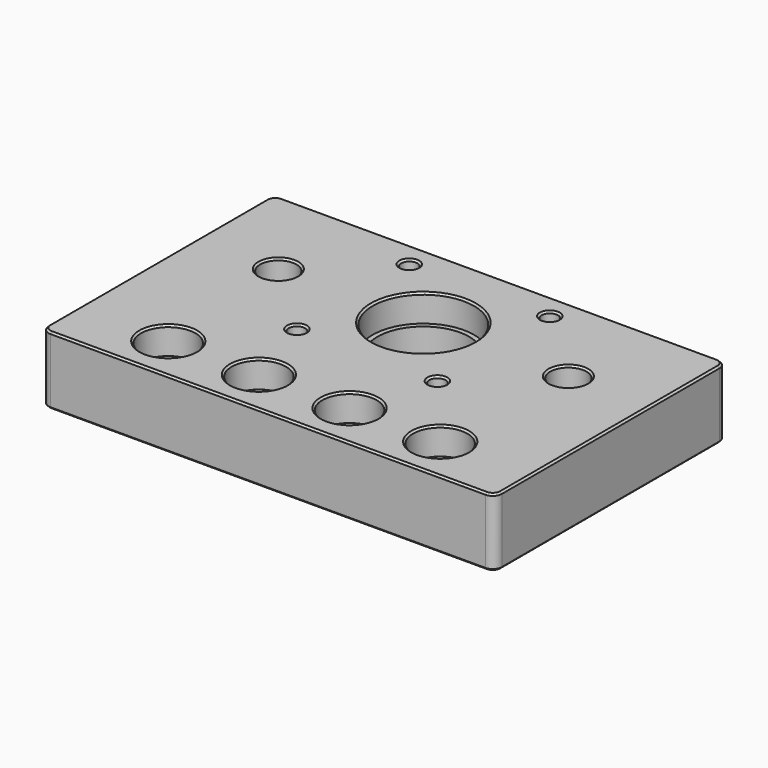
from build123d import *

# Parameters (mm, degrees)
SKETCH_W        = 100
SKETCH_H        = 64
SKETCH_R        = 10.1
SKETCH_R_2      = 1.8
SKETCH_R_3      = 3.2
SKETCH_R_4      = 4
PAD_DEPTH       = 15
SKETCH001_R     = 11.2
SKETCH001_R_2   = 6
POCKET_DEPTH    = 6
SKETCH002_R     = 3.2
POCKET001_DEPTH = 3.2
SKETCH003_R     = 6
POCKET002_DEPTH = 6
SKETCH004_R     = 3.2
POCKET003_DEPTH = 15
FILLET_R        = 2
CHAMFER_SIZE    = 0.4
CHAMFER001_SIZE = 0.4


with BuildPart() as part:
    # Sketch → Pad (new body)
    with BuildSketch(Plane.XY):
        with Locations((50, 32)):
            Rectangle(SKETCH_W, SKETCH_H)
        with Locations((50, 42.85)):
            Circle(SKETCH_R, mode=Mode.SUBTRACT)
        with Locations((65.5, 58.35)):
            Circle(SKETCH_R_2, mode=Mode.SUBTRACT)
        with Locations((65.5, 27.35)):
            Circle(SKETCH_R_2, mode=Mode.SUBTRACT)
        with Locations((34.5, 27.35)):
            Circle(SKETCH_R_2, mode=Mode.SUBTRACT)
        with Locations((34.5, 58.35)):
            Circle(SKETCH_R_2, mode=Mode.SUBTRACT)
        with Locations((20, 10)):
            Circle(SKETCH_R_3, mode=Mode.SUBTRACT)
        with Locations((80, 10)):
            Circle(SKETCH_R_3, mode=Mode.SUBTRACT)
        with Locations((82, 42.85)):
            Circle(SKETCH_R_4, mode=Mode.SUBTRACT)
        with Locations((18, 42.85)):
            Circle(SKETCH_R_4, mode=Mode.SUBTRACT)
    extrude(amount=PAD_DEPTH)

    # Sketch001 (on Face15 of Pad) → Pocket (cut)
    with BuildSketch(Plane.XY.offset(15)):
        with Locations((50, 42.85)):
            Circle(SKETCH001_R)
        with Locations((20, 10)):
            Circle(SKETCH001_R_2)
        with Locations((80, 10)):
            Circle(SKETCH001_R_2)
    extrude(amount=-POCKET_DEPTH, mode=Mode.SUBTRACT)

    # Sketch002 (on Face4 of Pocket) → Pocket001 (cut)
    with BuildSketch(Plane(origin=(0, 0, 0), x_dir=(1, 0, 0), z_dir=(0, 0, -1))):
        with Locations((34.5, -27.35)):
            Circle(SKETCH002_R)
        with Locations((65.5, -27.35)):
            Circle(SKETCH002_R)
        with Locations((34.5, -58.35)):
            Circle(SKETCH002_R)
        with Locations((65.5, -58.35)):
            Circle(SKETCH002_R)
    extrude(amount=-POCKET001_DEPTH, mode=Mode.SUBTRACT)

    # Sketch003 (on Face5 of Pocket001) → Pocket002 (cut)
    with BuildSketch(Plane.XY.offset(15)):
        with Locations((40, 10)):
            Circle(SKETCH003_R)
        with Locations((60, 10)):
            Circle(SKETCH003_R)
    extrude(amount=-POCKET002_DEPTH, mode=Mode.SUBTRACT)

    # Sketch004 (on Face4 of Pocket002) → Pocket003 (cut)
    with BuildSketch(Plane(origin=(0, 0, 0), x_dir=(1, 0, 0), z_dir=(0, 0, -1))):
        with Locations((40, -10)):
            Circle(SKETCH004_R)
        with Locations((60, -10)):
            Circle(SKETCH004_R)
    extrude(amount=-POCKET003_DEPTH, mode=Mode.SUBTRACT)

    # Fillet
    fillet_edges = [part.edges().sort_by_distance(p)[0] for p in [
        (0, 64, 7.5),
        (100, 64, 7.5),
        (100, 0, 7.5),
        (0, 0, 7.5),
    ]]
    fillet(fillet_edges, radius=FILLET_R)

    # Chamfer
    chamfer_edges = [part.edges().sort_by_distance(p)[0] for p in [
        (50, 64, 15),
        (0.585786, 63.414214, 15),
        (99.414214, 63.414214, 15),
        (0, 32, 15),
        (100, 32, 15),
        (0.585786, 0.585786, 15),
        (99.414214, 0.585786, 15),
        (50, 0, 15),
        (74, 10, 15),
        (54, 10, 15),
        (63.7, 27.35, 15),
        (34, 10, 15),
        (14, 10, 15),
        (32.7, 27.35, 15),
        (78, 42.85, 15),
        (63.7, 58.35, 15),
        (38.8, 42.85, 15),
        (14, 42.85, 15),
        (32.7, 58.35, 15),
    ]]
    chamfer(chamfer_edges, length=CHAMFER_SIZE)

    # Chamfer001
    chamfer001_edges = [part.edges().sort_by_distance(p)[0] for p in [
        (50, 64, 0),
        (0.585786, 63.414214, 0),
        (99.414214, 63.414214, 0),
        (0, 32, 0),
        (100, 32, 0),
        (0.585786, 0.585786, 0),
        (99.414214, 0.585786, 0),
        (50, 0, 0),
        (76.8, 10, 0),
        (56.8, 10, 0),
        (62.3, 27.35, 0),
        (36.8, 10, 0),
        (16.8, 10, 0),
        (31.3, 27.35, 0),
        (78, 42.85, 0),
        (62.3, 58.35, 0),
        (39.9, 42.85, 0),
        (14, 42.85, 0),
        (31.3, 58.35, 0),
    ]]
    chamfer(chamfer001_edges, length=CHAMFER001_SIZE)


solid = part.part
